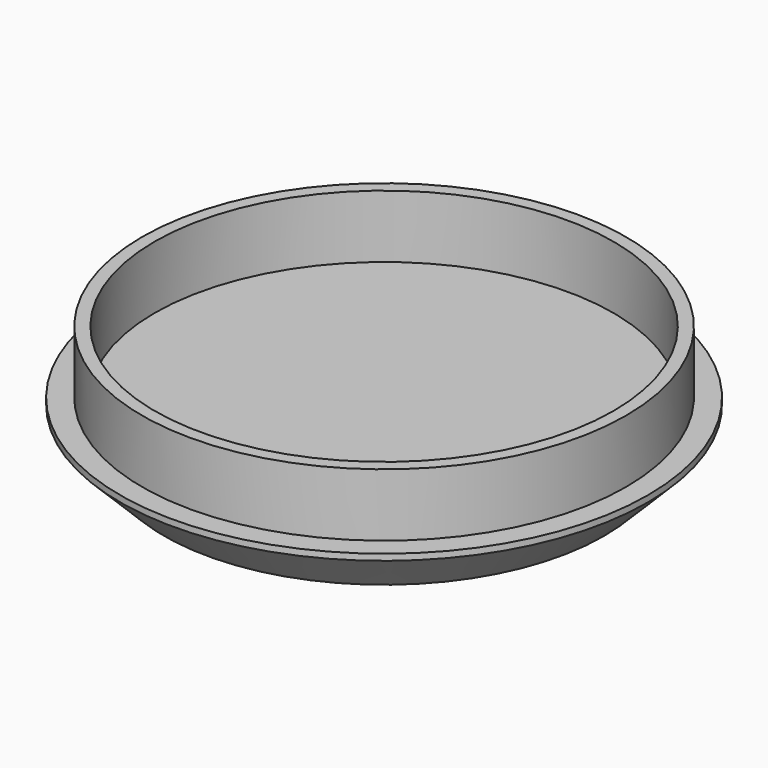
from build123d import *

# Parameters (mm, degrees)
F0_R     = 38.5
F0_R_2   = 36.5
F1_DEPTH = 10
F2_R     = 42
F3_DEPTH = 8
F4_SIZE  = 7


with BuildPart() as f1:
    # F0 (on Top) → F1 (new body)
    with BuildSketch(Plane.XY):
        Circle(F0_R)
        Circle(F0_R_2, mode=Mode.SUBTRACT)
    extrude(amount=F1_DEPTH)

    # F2 (on Top) → F3 (join)
    with BuildSketch(Plane.XY):
        Circle(F2_R)
    extrude(amount=-F3_DEPTH)

    # F4
    f4_edges = [f1.edges().sort_by_distance(p)[0] for p in [
        (-42, 0, -8),
    ]]
    chamfer(f4_edges, length=F4_SIZE)


solid = f1.part
